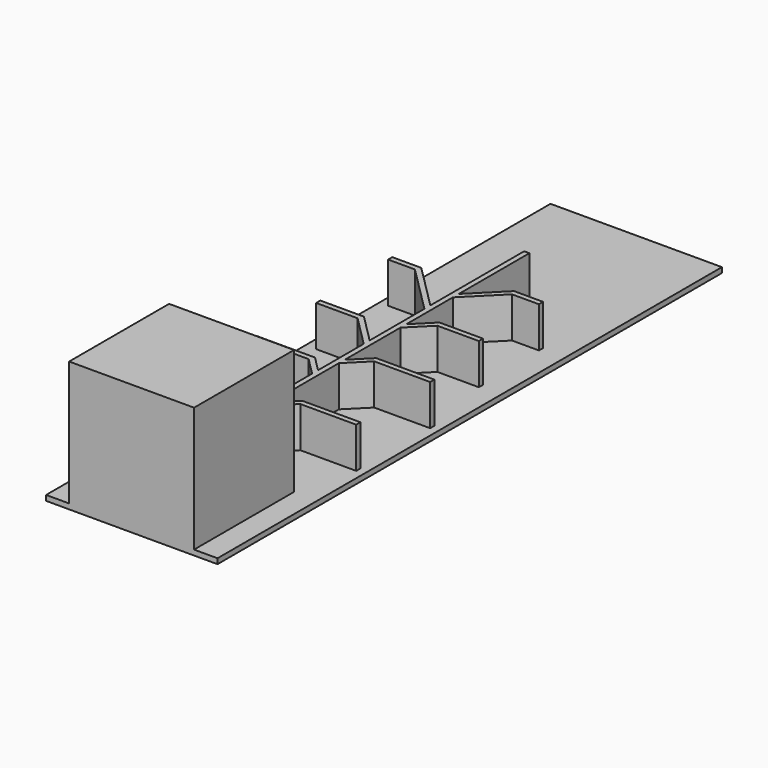
from build123d import *

# Parameters (mm, degrees)
F0_W     = 590
F0_H     = 2170
F1_DEPTH = 18
F3_DEPTH = 140
F4_W     = 430
F4_H     = 430
F5_DEPTH = 430


with BuildPart() as f1:
    # F0 (on Top) → F1 (new body)
    with BuildSketch(Plane.XY):
        with Locations((0.711598, 640.850716)):
            Rectangle(F0_W, F0_H)
    extrude(amount=F1_DEPTH)

    # F2 (on face) → F3 (join)
    with BuildSketch(Plane.XY.offset(18)):
        Polygon((-9, 25.74664), (-9, -444.149284), (9, -444.149284), (9, 118.290795), (9, 143.74664), (9, 436.290795), (9, 461.74664), (9, 701.140038), (9, 726.595882), (9, 926.713631), (9, 952.169475), (9, 1255.850716), (-9, 1255.850716), (-9, 852.287224), (-9, 826.83138), (-9, 591.240543), (-9, 565.784699), (-9, 369.202484), (-9, 343.74664), (-9, 51.202484), align=None)
        Polygon((-69.104076, 85.850716), (-9, 25.74664), (-9, 51.202484), (-61.648232, 103.850716), (-261.648232, 103.850716), (-261.648232, 85.850716), align=None)
        Polygon((9, 143.74664), (9, 118.290795), (76.559921, 185.850716), (269.104076, 185.850716), (269.104076, 203.850716), (69.104076, 203.850716), align=None)
        Polygon((-69.104076, 403.850716), (-9, 343.74664), (-9, 369.202484), (-61.648232, 421.850716), (-261.648232, 421.850716), (-261.648232, 403.850716), align=None)
        Polygon((9, 461.74664), (9, 436.290795), (76.559921, 503.850716), (269.104076, 503.850716), (269.104076, 521.850716), (69.104076, 521.850716), align=None)
        Polygon((-115.066017, 671.850716), (-9, 565.784699), (-9, 591.240543), (-107.610173, 689.850716), (-257.610173, 689.850716), (-257.610173, 671.850716), align=None)
        Polygon((9, 726.595882), (9, 701.140038), (79.710678, 771.850716), (222.254834, 771.850716), (222.254834, 789.850716), (72.254834, 789.850716), align=None)
        Polygon((-172.019336, 989.850716), (-9, 826.83138), (-9, 852.287224), (-164.563492, 1007.850716), (-264.563492, 1007.850716), (-264.563492, 989.850716), align=None)
        Polygon((9, 952.169475), (9, 926.713631), (122.137085, 1039.850716), (214.681241, 1039.850716), (214.681241, 1057.850716), (114.681241, 1057.850716), align=None)
    extrude(amount=F3_DEPTH)

    # F4 (on face) → F5 (join)
    with BuildSketch(Plane.XY.offset(18)):
        with Locations((0, -229.149284)):
            Rectangle(F4_W, F4_H)
    extrude(amount=F5_DEPTH)


solid = f1.part
